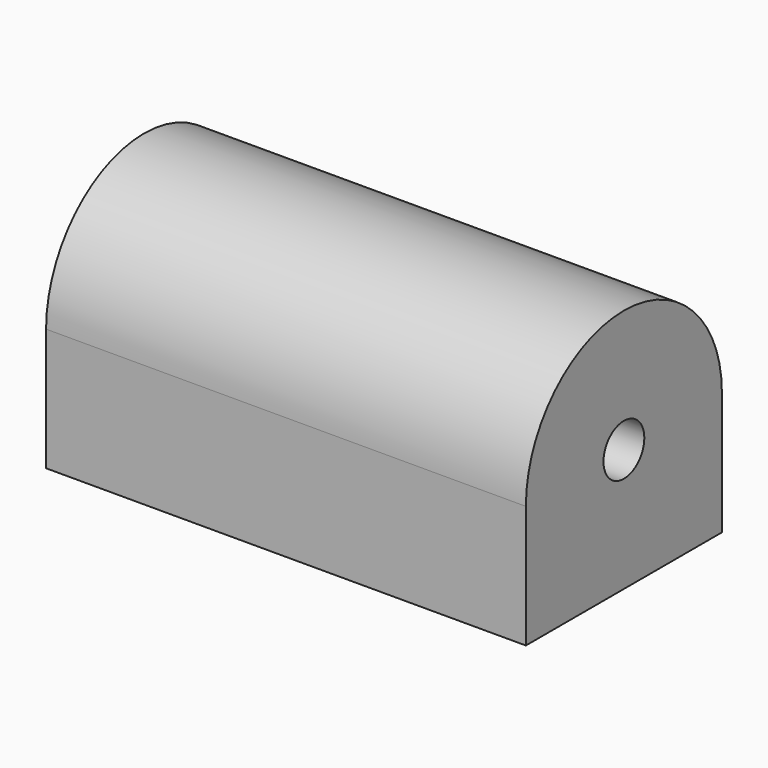
from build123d import *

# Parameters (mm, degrees)
F0_R     = 3.96875
F1_DEPTH = 74.5998


with BuildPart() as f1:
    # F0 (on Right) → F1 (new body)
    with BuildSketch(Plane.YZ):
        with BuildLine():
            Line((0, 19.05), (0, 0))
            Line((0, 0), (38.1, 0))
            Line((38.1, 0), (38.1, 19.05))
            ThreePointArc((38.1, 19.05), (19.05, 38.1), (0, 19.05))
        make_face()
        with Locations((19.05, 19.05)):
            Circle(F0_R, mode=Mode.SUBTRACT)
    extrude(amount=-F1_DEPTH)


solid = f1.part
